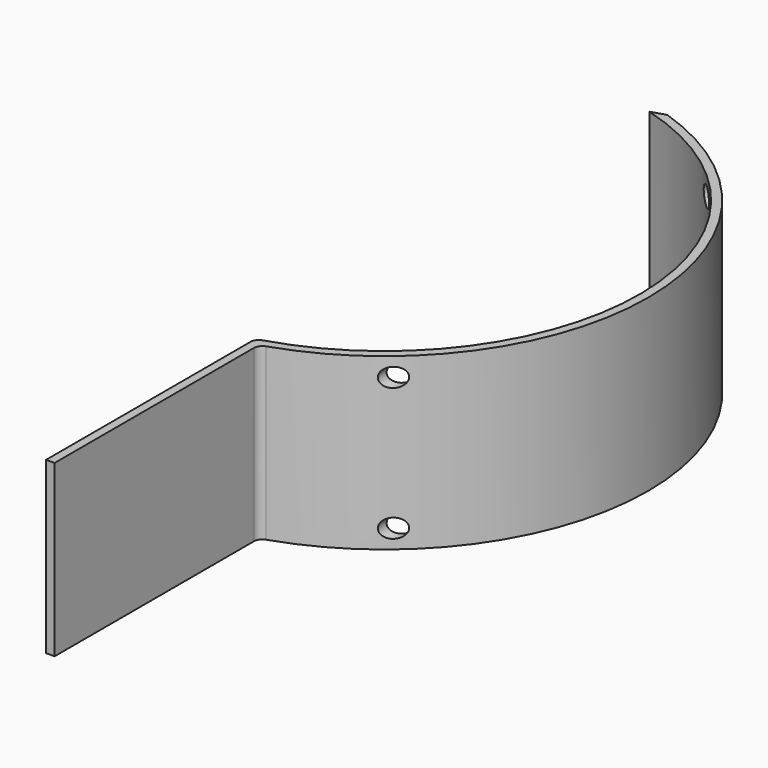
from build123d import *

# Parameters (mm, degrees)
F1_DEPTH = 100
F3_D     = 11


with BuildPart() as f1:
    # F0 (on Top) → F1 (new body)
    with BuildSketch(Plane.XY):
        with BuildLine():
            Line((45, -298.3239697419), (45, -151.9868415357))
            ThreePointArc((45, -151.9868415357), (45.9495370635, -149.0553316858), (48.4375, -147.2372527377))
            ThreePointArc((48.4375, -147.2372527377), (155, 0), (48.4375, 147.2372527377))
            Line((48.4375, 147.2372527377), (40, 144.568322948))
            ThreePointArc((40, 144.568322948), (149.8888164954, 1.8456395549), (43.5443348323, -143.5371914998))
            ThreePointArc((43.5443348323, -143.5371914998), (40.9826422963, -145.343888573), (40, -148.3206043943))
            Line((40, -148.3206043943), (40, -298.3239697419))
            Line((40, -298.3239697419), (45, -298.3239697419))
        make_face()
    extrude(amount=F1_DEPTH)

    # F3 (through all)
    with Locations(Plane.XZ.offset(298.3239697419)):
        with Locations((100, 89), (100, 11)):
            Hole(F3_D / 2)


solid = f1.part
